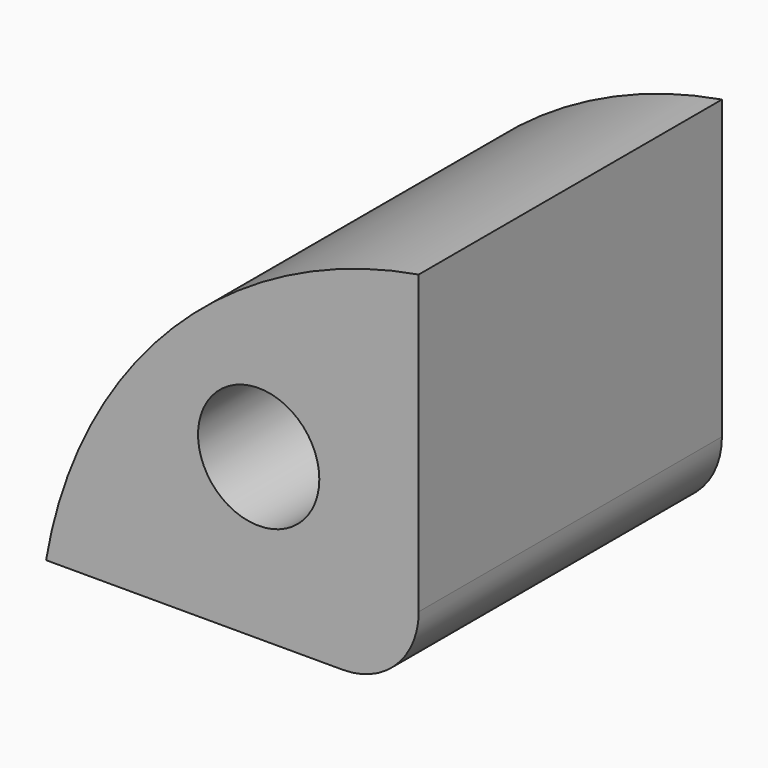
from build123d import *

# Parameters (mm, degrees)
F1_DEPTH = 25
F2_R     = 5
F3_R     = 4
F4_DEPTH = 47.8


with BuildPart() as f1:
    # F0 (on Front) → F1 (new body)
    with BuildSketch(Plane.XZ):
        with BuildLine():
            Line((-5, 5), (-5, 29.5803989155))
            ThreePointArc((-5, 29.5803989155), (-21.2132034356, 21.2132034356), (-29.5803989155, 5))
            Line((-29.5803989155, 5), (-5, 5))
        make_face()
    extrude(amount=F1_DEPTH)

    # F2
    f2_edges = [f1.edges().sort_by_distance(p)[0] for p in [
        (-5, -12.5, 5),
    ]]
    fillet(f2_edges, radius=F2_R)

    # F3 (on Front) → F4 (cut)
    with BuildSketch(Plane.XZ):
        with Locations((-15.5563491861, 15.5563491861)):
            Circle(F3_R)
    extrude(amount=F4_DEPTH, mode=Mode.SUBTRACT)


solid = f1.part
